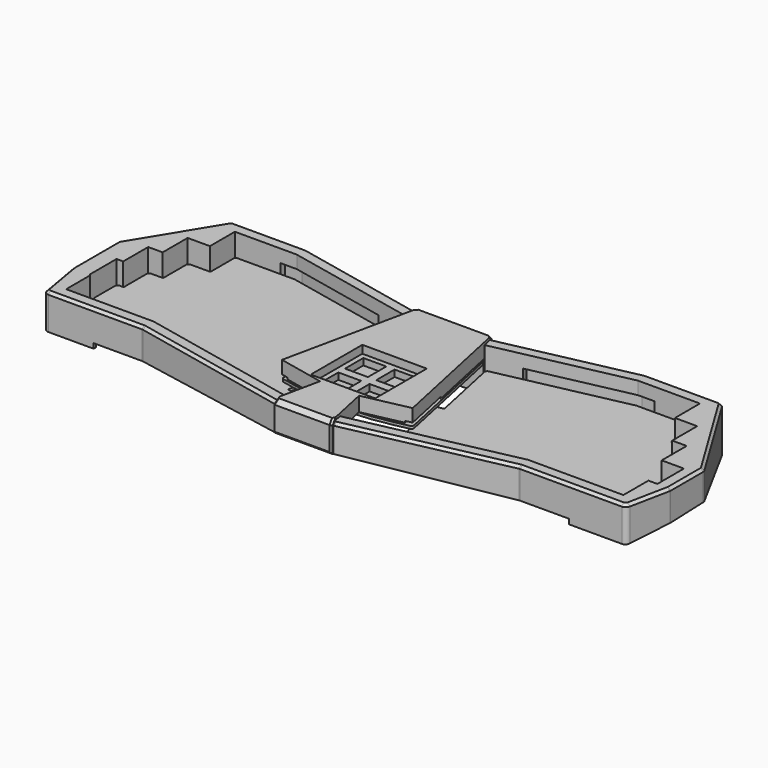
from build123d import *

# Parameters (mm, degrees)
PAD_DEPTH       = 1.6
FILLET_R        = 1.5
FILLET001_R     = 0.8
PAD001_DEPTH    = 40
POCKET_DEPTH    = 400
POCKET001_DEPTH = 50
POCKET001_TAPER = 70
POCKET002_DEPTH = 50
POCKET002_TAPER = 70
POCKET003_DEPTH = 3
POCKET005_DEPTH = 16.8
POCKET007_DEPTH = 22
POCKET012_DEPTH = 59
PAD006_DEPTH    = 3.5
PAD007_DEPTH    = 3.5
SKETCH026_W     = 15
SKETCH026_H     = 4
PAD008_DEPTH    = 3.5
SKETCH027_W     = 15
SKETCH027_H     = 4
PAD009_DEPTH    = 3.5
FILLET003_R     = 8
FILLET004_R     = 3
CHAMFER_SIZE    = 1.6
POCKET019_DEPTH = 200
SKETCH038_R     = 2
POCKET025_DEPTH = 6.7
PAD015_DEPTH    = 3.5
PAD016_DEPTH    = 3.5
POCKET035_DEPTH = 115
PAD010_DEPTH    = 1.6
FILLET002_R     = 1.5
PAD011_DEPTH    = 28.4
POCKET017_DEPTH = 50
POCKET018_DEPTH = 19.6
POCKET020_DEPTH = 26
POCKET021_DEPTH = 16
POCKET022_DEPTH = 19
POCKET023_DEPTH = 25
POCKET024_DEPTH = 1
CHAMFER001_SIZE = 2.6
CHAMFER002_SIZE = 1.2
SKETCH045_R     = 4.5
SKETCH045_R_2   = 2
PAD013_DEPTH    = 5.6
SKETCH046_R     = 2
POCKET030_DEPTH = 6.7
SKETCH047_R     = 2
POCKET031_DEPTH = 5.7
POCKET032_DEPTH = 13
CHAMFER003_SIZE = 1
SKETCH054_R     = 3.6
SKETCH054_R_2   = 2
PAD014_DEPTH    = 1
SKETCH055_W     = 19
SKETCH055_H     = 36
POCKET033_DEPTH = 1
PAD017_DEPTH    = 8
PAD018_DEPTH    = 8
FILLET005_R     = 1
SKETCH049_W     = 39.3
SKETCH049_H     = 39.3
POCKET036_DEPTH = 50
SKETCH063_W     = 14
SKETCH063_H     = 14
SKETCH063_H_2   = 14.0000000001
POCKET037_DEPTH = 500


with BuildPart() as pcb:
    # Sketch001 → Pad (new body)
    with BuildSketch(Plane.XY):
        with BuildLine():
            Line((-25.6569009013, 76.7143133761), (-104.1862885277, 93.40625))
            Line((-104.1862885277, 93.40625), (-140.3865264554, 93.40625))
            Line((-140.3865264554, 93.40625), (-140.3865264554, 74.35625))
            Line((-140.3865264554, 74.35625), (-153.9607289552, 74.35625))
            Line((-153.9607289552, 74.35625), (-153.9607289552, 55.30625))
            Line((-153.9607289552, 55.30625), (-162.772431455, 55.30625))
            Line((-162.772431455, 55.30625), (-162.772431455, 36.25625))
            Line((-162.772431455, 36.25625), (-166.8216339549, 36.25625))
            Line((-166.8216339549, 36.25625), (-166.8216339549, 18.7896622428))
            Line((-166.8216339549, 18.7896622428), (-166.1083364547, 18.0000001221))
            Line((-166.1083364547, 18.0000001221), (-166.1083364547, -0.25625))
            Line((-166.1083364547, -0.25625), (-114.0306139632, -0.25625))
            Line((-114.0306139632, -0.25625), (-33.0319665059, -17.4730440034))
            ThreePointArc((-33.0319665059, -17.4730440034), (0, -21.0075427473), (33.0319665059, -17.4730440034))
            Line((114.0306139632, -0.25625), (33.0319665059, -17.4730440034))
            Line((114.0306139632, -0.25625), (170.8708364547, -0.25625))
            Line((170.8708364547, -0.25625), (170.8708364547, 18.79375))
            Line((170.8708364547, 18.79375), (176.3466339549, 18.79375))
            Line((176.3466339549, 18.79375), (176.3466339549, 36.25625))
            Line((176.3466339549, 36.25625), (162.772431455, 36.25625))
            Line((162.772431455, 36.25625), (162.772431455, 55.30625))
            Line((162.772431455, 55.30625), (153.9607289552, 55.30625))
            Line((153.9607289552, 55.30625), (153.9607289552, 74.35625))
            Line((153.9607289552, 74.35625), (140.3865264554, 74.35625))
            Line((140.3865264554, 74.35625), (140.3865264554, 93.40625))
            Line((140.3865264554, 93.40625), (104.1862885277, 93.40625))
            Line((104.1862885277, 93.40625), (25.6569009013, 76.7143133761))
            Line((34.7896818101, 33.7479573294), (25.6569009013, 76.7143133761))
            Line((29.5137981886, 32.626533647), (34.7896818101, 33.7479573294))
            Line((35.8509465247, 2.8125947766), (29.5137981886, 32.626533647))
            ThreePointArc((-35.8509465247, 2.8125947766), (0, -2.07), (35.8509465247, 2.8125947766))
            Line((-35.8509465247, 2.8125947766), (-29.5137981886, 32.626533647))
            Line((-29.5137981886, 32.626533647), (-34.7896818101, 33.7479573294))
            Line((-34.7896818101, 33.7479573294), (-25.6569009013, 76.7143133761))
        make_face()
    extrude(amount=PAD_DEPTH)

    # Fillet
    fillet_edges = [pcb.edges().sort_by_distance(p)[0] for p in [
        (-166.108336, -0.25625, 0.8),
        (-166.821634, 36.25625, 0.8),
        (-162.772431, 55.30625, 0.8),
        (-153.960729, 74.35625, 0.8),
        (-140.386526, 93.40625, 0.8),
        (-25.656901, 76.714313, 0.8),
        (25.656901, 76.714313, 0.8),
        (140.386526, 93.40625, 0.8),
        (153.960729, 74.35625, 0.8),
        (162.772431, 55.30625, 0.8),
        (176.346634, 36.25625, 0.8),
        (176.346634, 18.79375, 0.8),
        (170.870836, -0.25625, 0.8),
        (-114.030614, -0.25625, 0.8),
        (114.030614, -0.25625, 0.8),
        (-104.186289, 93.40625, 0.8),
        (104.186289, 93.40625, 0.8),
    ]]
    fillet(fillet_edges, radius=FILLET_R)

    # Fillet001
    fillet001_edges = [pcb.edges().sort_by_distance(p)[0] for p in [
        (-34.789682, 33.747957, 0.8),
        (-29.513798, 32.626534, 0.8),
        (-35.850947, 2.812595, 0.8),
        (-140.386526, 74.35625, 0.8),
        (-153.960729, 55.30625, 0.8),
        (-162.772431, 36.25625, 0.8),
        (-166.108336, 18, 0.8),
        (-166.821634, 18.789662, 0.8),
        (35.850947, 2.812595, 0.8),
        (29.513798, 32.626534, 0.8),
        (34.789682, 33.747957, 0.8),
        (140.386526, 74.35625, 0.8),
        (153.960729, 55.30625, 0.8),
        (162.772431, 36.25625, 0.8),
        (170.870836, 18.79375, 0.8),
    ]]
    fillet(fillet001_edges, radius=FILLET001_R)


with BuildPart() as pcb_1:
    # Body001 placement: moved
    add(pcb.part.moved(Location((0, 0, 5.4))))


with BuildPart() as body002:
    # Sketch002 → Pad001 (new body)
    with BuildSketch(Plane.XY.offset(-20.2)):
        Polygon((-149.4960240693, 102.2), (-179.6153839549, 52.8352871714), (-179.6153839549, 18), (-174.9020864547, -9.05), (-114.9548743321, -9.05), (-18.2317807246, -29.6091282113), (18.2317807246, -29.6091282113), (114.9548743321, -9.05), (179.6645864547, -9.05), (185.1403839549, 18), (185.1403839549, 43.7799805707), (149.4960240693, 102.2), (103.2620281588, 102.2), (23.0521728121, 85.1508689355), (-23.0521728121, 85.1508689355), (-103.2620281588, 102.2), align=None)
    extrude(amount=PAD001_DEPTH)

    # Sketch004 → Pocket (cut)
    with BuildSketch(Plane.YZ.offset(200)):
        Polygon((-29.6091282113, 0), (427.5929638991, -40), (-34.6091282113, -40), (-34.6091282113, 0), align=None)
    extrude(amount=-POCKET_DEPTH, mode=Mode.SUBTRACT)

    # Sketch005 (on Face2 of Pocket) → Pocket001 (cut)
    with BuildSketch(Plane(origin=(0, -0.2249145944, -2.5707855781), x_dir=(1, 0, 0), z_dir=(0, -0.0871557427, -0.9961946981))):
        Polygon((179.664586, 8.858796), (139.4960240693, -102.8161611286), (-829.867004, -717.988555), (0, -4000), (8000, 0), (0, 4000), (-701.29071, 993.332806), align=None)
    extrude(amount=-POCKET001_DEPTH, taper=POCKET001_TAPER, mode=Mode.SUBTRACT)

    # Sketch006 (on Face2 of Pocket001) → Pocket002 (cut)
    with BuildSketch(Plane(origin=(0, -0.2249145944, -2.5707855781), x_dir=(1, 0, 0), z_dir=(0, -0.0871557427, -0.9961946981))):
        Polygon((-174.9020864547, 8.8587957981), (-139.4960240693, -102.8161611286), (0, -4000), (-8000, 0), (0, 4000), align=None)
    extrude(amount=-POCKET002_DEPTH, taper=POCKET002_TAPER, mode=Mode.SUBTRACT)

    # Sketch007 (on Face19 of Pocket002) → Pocket003 (cut)
    with BuildSketch(Plane(origin=(0, -0.2249145944, -2.5707855781), x_dir=(1, 0, 0), z_dir=(0, -0.0871557427, -0.9961946981))):
        Polygon((-172.1698836043, 6.8587957981), (-144.9548743321, 6.8587957981), (-144.9548743321, 8.8587957981), (-144.9548743321, 29.4964565392), (-88.6830095072, 29.4964565392), (0, 55.200555), (88.6830096055, 29.496457), (144.9548743321, 29.496457), (144.9548743321, 8.8587957981), (144.9548743321, 6.8587957981), (176.8197582998, 6.8587957981), (138.0899634837, -100.8161611286), (103.4730219471, -100.8161611286), (72.3688065106, -94.1795015486), (71.9514637892, -96.1354731877), (70.5260154697, -102.8161611286), (-70.5260154697, -102.8161611286), (-71.9514637892, -96.1354731877), (-72.3688065106, -94.1795015486), (-103.4730219471, -100.8161611286), (-138.0320039292, -100.8161611286), align=None)
    extrude(amount=-POCKET003_DEPTH, mode=Mode.SUBTRACT)

    # Sketch003 → Pocket005 (cut)
    with BuildSketch(Plane.XY.offset(19.8)):
        Polygon((-141.7802764554, 94.8), (-141.7802764554, 75.75), (-155.3544789552, 75.75), (-155.3544789552, 56.7), (-164.166181455, 56.7), (-164.166181455, 37.65), (-168.2153839549, 37.65), (-168.2153839549, 17.4), (-167.5020864547, 16.6867024998), (-167.5020864547, -1.65), (-152.5020864547, -1.65), (-126.7802764554, 94.8), align=None)
        Polygon((157.2645864547, -1.65), (172.2645864547, -1.65), (172.2645864547, 17.4), (177.7403839549, 17.4), (177.7403839549, 37.65), (164.166181455, 37.65), (164.166181455, 56.7), (155.3544789552, 56.7), (155.3544789552, 75.75), (141.7802764554, 75.75), (141.7802764554, 94.8), (126.7802764554, 94.8), align=None)
    extrude(amount=-POCKET005_DEPTH, mode=Mode.SUBTRACT)

    # Sketch012 → Pocket007 (cut)
    with BuildSketch(Plane.XY.offset(-10)):
        Polygon((-44.2784183533, 81.4839219459), (-43.4259804209, 85.4943271089), (-103.6719346763, 98.3), (-114.0802764554, 98.3), (-114.0802764554, 94.2), (-149.2770864547, -1.05), (-149.2770864547, -5.15), (-114.5449678146, -5.15), (-42.8527627495, -20.3886486072), (-42.0003248171, -16.3782434442), (-111.178681455, 37.05), align=None)
        Polygon((44.2784183533, 81.4839219459), (43.4259804209, 85.4943271089), (103.6719346763, 98.3), (114.0802764554, 98.3), (114.0802764554, 94.2), (149.2770864547, -1.05), (149.2770864547, -5.15), (114.5449678146, -5.15), (42.8527627495, -20.3886486072), (42.0003248171, -16.3782434442), (111.178681455, 37.05), align=None)
    extrude(amount=POCKET007_DEPTH, mode=Mode.SUBTRACT)

    # Sketch017 → Pocket012 (cut)
    with BuildSketch(Plane.XY.offset(40)):
        Polygon((-164.7812608877, -1.65), (-114.1771029911, -1.65), (-16.6932414892, -22.3708344192), (16.6932414892, -22.3708344192), (114.1771029911, -1.65), (169.1251097712, -1.65), (134.3003201796, 94.8), (104.0397994998, 94.8), (24.5907120235, 77.9125751382), (-24.5907120235, 77.9125751382), (-104.0397994998, 94.8), (-134.0853982624, 94.8), align=None)
    extrude(amount=-POCKET012_DEPTH, mode=Mode.SUBTRACT)

    # Sketch024 (on Face92 of Pocket012) → Pad006 (join)
    with BuildSketch(Plane(origin=(-5.9988132418, -28.2221973985, 0), x_dir=(-0.9781476007, 0.2079116908, 0), z_dir=(0.2079116908, 0.9781476007, 0))):
        Polygon((47.675634708, 2.0229030007), (47.675634708, 6.0229030006), (62.6731537758, 5.7500993892), (62.6731537758, 1.7500993892), align=None)
    extrude(amount=PAD006_DEPTH)

    # Sketch025 (on Face94 of Pad006) → Pad007 (join)
    with BuildSketch(Plane(origin=(5.9988132418, -28.2221973985, 0), x_dir=(-0.9781476007, -0.2079116908, 0), z_dir=(-0.2079116908, 0.9781476007, 0))):
        Polygon((-47.675634708, 2.0229030007), (-47.675634708, 6.0229030007), (-62.6731537758, 5.7500993892), (-62.6731537758, 1.7500993892), align=None)
    extrude(amount=PAD007_DEPTH)

    # Sketch026 (on Face91 of Pad007) → Pad008 (join)
    with BuildSketch(Plane(origin=(0, -5.15, 0), x_dir=(-1, 0, 0), z_dir=(0, 1, 0))):
        with Locations((131.7770864547, 2.8715630744)):
            Rectangle(SKETCH026_W, SKETCH026_H)
    extrude(amount=PAD008_DEPTH)

    # Sketch027 (on Face97 of Pad008) → Pad009 (join)
    with BuildSketch(Plane(origin=(0, -5.15, 0), x_dir=(-1, 0, 0), z_dir=(0, 1, 0))):
        with Locations((-131.7770864547, 2.8715630744)):
            Rectangle(SKETCH027_W, SKETCH027_H)
    extrude(amount=PAD009_DEPTH)

    # Fillet003
    fillet003_edges = [body002.edges().sort_by_distance(p)[0] for p in [
        (134.30032, 94.8, -2.436464),
        (138.089963, 100.338344, -9.863201),
        (-134.085398, 94.8, -2.436464),
        (-138.032004, 100.338344, -9.863201),
        (169.12511, -1.65, 1.782676),
        (176.819758, -6.926877, -0.47871),
        (-164.781261, -1.65, 1.782676),
        (-172.169884, -6.926877, -0.47871),
    ]]
    fillet(fillet003_edges, radius=FILLET003_R)

    # Fillet004
    fillet004_edges = [body002.edges().sort_by_distance(p)[0] for p in [
        (-174.902086, -9.05, 9.000655),
        (-179.615384, 18, 10.115146),
        (-179.615384, 52.835287, 10.503488),
        (-149.496024, 102.2, 5.858877),
        (-114.954874, -9.05, 10.506384),
        (-18.231781, -29.609128, 11.40573),
        (18.231781, -29.609128, 11.40573),
        (114.954874, -9.05, 10.506384),
        (179.664586, -9.05, 9.000655),
        (185.140384, 18, 10.409616),
        (185.140384, 43.779981, 10.864903),
        (149.496024, 102.2, 5.834753),
        (103.262028, 102.2, 4.134098),
        (23.052173, 85.150869, 6.38563),
        (-23.052173, 85.150869, 6.38563),
        (-103.262028, 102.2, 4.134098),
    ]]
    fillet(fillet004_edges, radius=FILLET004_R)

    # Chamfer
    chamfer_edges = [body002.edges().sort_by_distance(p)[0] for p in [
        (-177.452971, 5.589733, 19.8),
    ]]
    chamfer(chamfer_edges, length=CHAMFER_SIZE)

    # Sketch032 → Pocket019 (cut)
    with BuildSketch(Plane.XY):
        Polygon((-10, -38.338413), (10, -38.338413), (10, -15.045521), (10, 62.395123), (10, 94.439026), (-10, 94.439026), (-10, 62.395123), (-10, -15.045521), align=None)
    extrude(amount=POCKET019_DEPTH, mode=Mode.SUBTRACT)

    # Sketch038 (on Face53 of Pocket019) → Pocket025 (cut)
    with BuildSketch(Plane(origin=(0, 0.0365526338, 0.4177985162), x_dir=(1, 0, 0), z_dir=(0, -0.0871557427, -0.9961946981))):
        with Locations((-152.8770864547, 4.7929949909)):
            Circle(SKETCH038_R)
        with Locations((-117.6802764554, -98.7254283402)):
            Circle(SKETCH038_R)
        with Locations((117.6802764554, -98.7254283402)):
            Circle(SKETCH038_R)
        with Locations((152.8770864547, 4.7929949909)):
            Circle(SKETCH038_R)
        with Locations((31.1362598613, 23.092329532)):
            Circle(SKETCH038_R)
        with Locations((-31.1362598613, 23.092329532)):
            Circle(SKETCH038_R)
        with Locations((-31.6633816813, -83.3636160948)):
            Circle(SKETCH038_R)
        with Locations((31.6633816813, -83.3636160948)):
            Circle(SKETCH038_R)
    extrude(amount=-POCKET025_DEPTH, mode=Mode.SUBTRACT)

    # Sketch057 (on Face148 of Pocket025) → Pad015 (join)
    with BuildSketch(Plane(origin=(15.5096511733, 72.9671718974, 0), x_dir=(0.9781476007, -0.2079116908, 0), z_dir=(-0.2079116908, -0.9781476007, 0))):
        Polygon((-85.2481537758, -7.1133944772), (-70.250634708, -6.8405908657), (-70.250634708, -2.8405908657), (-85.2481537758, -3.1133944772), align=None)
    extrude(amount=PAD015_DEPTH)

    # Sketch058 (on Face151 of Pad015) → Pad016 (join)
    with BuildSketch(Plane(origin=(-15.5096511733, 72.9671718974, 0), x_dir=(0.9781476007, 0.2079116908, 0), z_dir=(0.2079116908, -0.9781476007, 0))):
        Polygon((70.250634708, -6.8406570349), (85.2481537758, -7.1134606463), (85.2481537758, -3.1134606463), (70.250634708, -2.8406570349), align=None)
    extrude(amount=PAD016_DEPTH)

    # Sketch061 (on Face13 of Pad016) → Pocket035 (cut, symmetric)
    with BuildSketch(Plane.XZ.offset(-77.9125751382)):
        Polygon((-10, 14.8), (-15, 9.8), (-10, 4.8), align=None)
        Polygon((10, 14.8), (15, 9.8), (10, 4.8), align=None)
    extrude(amount=POCKET035_DEPTH, both=True, mode=Mode.SUBTRACT)


with BuildPart() as pcb_core:
    # Sketch028 → Pad010 (new body)
    with BuildSketch(Plane.XY):
        with BuildLine():
            Line((-24.2903297212, 76.8006881296), (24.2903297212, 76.8006881296))
            Line((24.2903297212, 76.8006881296), (39.9356560509, 3.1952148064))
            Line((39.9356560509, 3.1952148064), (29.998245005, 1.0829528826))
            ThreePointArc((-29.998245005, 1.0829528826), (0, -2.07), (29.998245005, 1.0829528826))
            Line((-39.9356560509, 3.1952148064), (-29.998245005, 1.0829528826))
            Line((-39.9356560509, 3.1952148064), (-24.2903297212, 76.8006881296))
        make_face()
    extrude(amount=PAD010_DEPTH)

    # Fillet002
    fillet002_edges = [pcb_core.edges().sort_by_distance(p)[0] for p in [
        (-39.935656, 3.195215, 0.8),
        (-24.29033, 76.800688, 0.8),
        (24.29033, 76.800688, 0.8),
        (39.935656, 3.195215, 0.8),
    ]]
    fillet(fillet002_edges, radius=FILLET002_R)


with BuildPart() as pcb_core_1:
    # Body007 placement: moved
    add(pcb_core.part.moved(Location((0, 0, 10))))


with BuildPart() as case_core:
    # Sketch029 → Pad011 (new body)
    with BuildSketch(Plane.XY):
        Polygon((-17.9584668663, -31.2091282113), (-11.8943740038, -2.6798143436), (-39.844852054, 3.2612431678), (-22.0854419765, 86.7508689355), (22.0986779565, 86.7508689355), (39.846701604, 3.2529824996), (11.896133913, -2.6880940655), (17.9584668663, -31.2091282113), align=None)
    extrude(amount=PAD011_DEPTH)

    # Sketch030 → Pocket017 (cut, symmetric)
    with BuildSketch(Plane.YZ):
        Polygon((-31.2091282114, 0), (-31.2091282114, 10.1399818616), (84.6913948162, 0), align=None)
    extrude(amount=POCKET017_DEPTH, both=True, mode=Mode.SUBTRACT)

    # Sketch031 → Pocket018 (cut)
    with BuildSketch(Plane.XY):
        with BuildLine():
            Line((171.6645864547, -20.7708337586), (171.6645864547, 76.7508689355))
            Line((171.6645864547, 76.7508689355), (-166.9020864547, 76.7508689355))
            Line((-166.9020864547, 76.7508689355), (-166.9020864547, -20.7708337586))
            Line((-166.9020864547, -20.7708337586), (-14.6128973912, -20.7708337586))
            ThreePointArc((-14.6128973912, -20.7708337586), (0, -21.3708337586), (14.6128973912, -20.7708337586))
            Line((171.6645864547, -20.7708337586), (14.6128973912, -20.7708337586))
        make_face()
    extrude(amount=POCKET018_DEPTH, mode=Mode.SUBTRACT)

    # Sketch033 → Pocket020 (cut)
    with BuildSketch(Plane.YZ.offset(-9.6)):
        Polygon((-29.6091282114, -7.025155), (-29.6091282114, 25.2), (-28.0091282114, 26.8), (-22.3708337586, 26.8), (-22.3708337586, -7.025155), align=None)
    extrude(amount=-POCKET020_DEPTH, mode=Mode.SUBTRACT)

    # Sketch034 → Pocket021 (cut)
    with BuildSketch(Plane.YZ.offset(-9.6)):
        Polygon((85.1508689355, -10.772844), (85.1508689355, 25.2), (83.5508689355, 26.8), (77.9108689355, 26.8), (77.9108689355, -10.772844), align=None)
    extrude(amount=-POCKET021_DEPTH, mode=Mode.SUBTRACT)

    # Sketch035 → Pocket022 (cut)
    with BuildSketch(Plane.YZ.offset(9.6)):
        Polygon((-29.6091282114, -7.025155), (-29.6091282114, 25.2), (-28.0091282114, 26.8), (-22.3708337586, 26.8), (-22.3708337586, -7.025155), align=None)
    extrude(amount=POCKET022_DEPTH, mode=Mode.SUBTRACT)

    # Sketch036 → Pocket023 (cut)
    with BuildSketch(Plane.YZ.offset(9.6)):
        Polygon((85.1508689355, -10.772844), (85.1508689355, 25.2), (83.5508689355, 26.8), (77.9108689355, 26.8), (77.9108689355, -10.772844), align=None)
    extrude(amount=POCKET023_DEPTH, mode=Mode.SUBTRACT)

    # Sketch037 (on Face2 of Pocket023) → Pocket024 (cut)
    with BuildSketch(Plane(origin=(0, 0, 19.6), x_dir=(1, 0, 0), z_dir=(0, 0, -1))):
        Polygon((-39.844852054, -3.2612431678), (-35.9322616511, -2.4295964045), (-29.6904916408, -31.7730847305), (-33.6030820438, -32.6047314938), align=None)
        Polygon((35.934111201, -2.4213357363), (29.6967604765, -31.7657637584), (33.6093508794, -32.5974105216), (39.846701604, -3.2529824996), align=None)
    extrude(amount=-POCKET024_DEPTH, mode=Mode.SUBTRACT)

    # Chamfer001
    chamfer001_edges = [case_core.edges().sort_by_distance(p)[0] for p in [
        (0, -31.209128, 28.4),
        (0.006618, 86.750869, 28.4),
    ]]
    chamfer(chamfer001_edges, length=CHAMFER001_SIZE)

    # Chamfer002
    chamfer002_edges = [case_core.edges().sort_by_distance(p)[0] for p in [
        (0, -31.209128, 10.139982),
        (0.006618, 86.750869, 0),
        (17.958467, -31.209128, 17.969991),
        (-17.958467, -31.209128, 17.969991),
        (-17.682143, -29.909128, 27.1),
        (17.682143, -29.909128, 27.1),
        (22.098678, 86.750869, 12.9),
        (22.375001, 85.450869, 27.1),
        (-22.36197, 85.450869, 27.1),
        (-22.085442, 86.750869, 12.9),
    ]]
    chamfer(chamfer002_edges, length=CHAMFER002_SIZE)

    # Sketch045 → Pad013 (join)
    with BuildSketch(Plane.XY.offset(19.6)):
        with Locations((0, -10.4867326534)):
            Circle(SKETCH045_R)
        with Locations((0, -10.4867326534)):
            Circle(SKETCH045_R_2, mode=Mode.SUBTRACT)
    extrude(amount=-PAD013_DEPTH)

    # Sketch046 (on Face55 of Pad013) → Pocket030 (cut)
    with BuildSketch(Plane(origin=(0, 0, 14), x_dir=(1, 0, 0), z_dir=(0, 0, -1))):
        with Locations((0, 10.4867326534)):
            Circle(SKETCH046_R)
    extrude(amount=-POCKET030_DEPTH, mode=Mode.SUBTRACT)

    # Sketch047 → Pocket031 (cut)
    with BuildSketch(Plane.XY.offset(18.6)):
        with Locations((-20.778249147, 72.3256881296)):
            Circle(SKETCH047_R)
        with Locations((20.778249147, 72.3256881296)):
            Circle(SKETCH047_R)
    extrude(amount=POCKET031_DEPTH, mode=Mode.SUBTRACT)

    # Sketch048 (on Face30 of Pocket031) → Pocket032 (cut)
    with BuildSketch(Plane.XZ.offset(-76.7508689355)):
        with BuildLine():
            ThreePointArc((-4, 13.5), (-7.5, 10), (-4, 6.5))
            Line((-4, 6.5), (4, 6.5))
            ThreePointArc((4, 6.5), (7.5, 10), (4, 13.5))
            Line((4, 13.5), (-4, 13.5))
        make_face()
    extrude(amount=-POCKET032_DEPTH, mode=Mode.SUBTRACT)

    # Chamfer003
    chamfer003_edges = [case_core.edges().sort_by_distance(p)[0] for p in [
        (0, 86.750869, 13.5),
        (0, 86.750869, 6.5),
        (-7.5, 86.750869, 10),
        (7.5, 86.750869, 10),
        (-7.5, 76.750869, 10),
        (0, 76.750869, 13.5),
        (7.5, 76.750869, 10),
        (0, 76.750869, 6.5),
    ]]
    chamfer(chamfer003_edges, length=CHAMFER003_SIZE)

    # Sketch054 → Pad014 (join)
    with BuildSketch(Plane.XY.offset(19.6)):
        with Locations((-20.778249147, 72.3256881296)):
            Circle(SKETCH054_R)
        with Locations((-20.778249147, 72.3256881296)):
            Circle(SKETCH054_R_2, mode=Mode.SUBTRACT)
        with Locations((20.778249147, 72.3256881296)):
            Circle(SKETCH054_R)
        with Locations((20.778249147, 72.3256881296)):
            Circle(SKETCH054_R_2, mode=Mode.SUBTRACT)
    extrude(amount=-PAD014_DEPTH)

    # Sketch055 (on Face7 of Pad014) → Pocket033 (cut)
    with BuildSketch(Plane(origin=(0, 0, 19.6), x_dir=(1, 0, 0), z_dir=(0, 0, -1))):
        with Locations((0, -58.7508689355)):
            Rectangle(SKETCH055_W, SKETCH055_H)
    extrude(amount=-POCKET033_DEPTH, mode=Mode.SUBTRACT)

    # Sketch060 (on Face23 of Pocket033) → Pad017 (join)
    with BuildSketch(Plane.XZ.offset(-85.1508689355)):
        Polygon((9.6, 11.8), (14.6, 16.8), (9.6, 21.8), align=None)
        Polygon((-9.6, 21.8), (-14.6, 16.8), (-9.6, 11.8), align=None)
    extrude(amount=PAD017_DEPTH)

    # Sketch062 (on Face68 of Pad017) → Pad018 (join)
    with BuildSketch(Plane.XZ.offset(22.3708337586)):
        Polygon((9.6, 11.8), (14.6, 16.8), (9.6, 21.8), align=None)
        Polygon((-9.6, 21.8), (-14.6, 16.8), (-9.6, 11.8), align=None)
    extrude(amount=PAD018_DEPTH)

    # Fillet005
    fillet005_edges = [case_core.edges().sort_by_distance(p)[0] for p in [
        (-14.6, -25.989981, 16.8),
        (14.6, -25.989981, 16.8),
        (14.6, 81.530869, 16.8),
        (-14.6, 81.530869, 16.8),
    ]]
    fillet(fillet005_edges, radius=FILLET005_R)

    # Sketch049 → Pocket036 (cut)
    with BuildSketch(Plane.XY.offset(23.6)):
        with Locations((0, 19.6047330851)):
            Rectangle(SKETCH049_W, SKETCH049_H)
    extrude(amount=POCKET036_DEPTH, mode=Mode.SUBTRACT)

    # Sketch063 → Pocket037 (cut)
    with BuildSketch(Plane.XY.offset(23.6)):
        with Locations((-9.525, 29.1297330852)):
            Rectangle(SKETCH063_W, SKETCH063_H)
        with Locations((9.525, 29.1297330852)):
            Rectangle(SKETCH063_W, SKETCH063_H)
        with Locations((-9.525, 10.0797330852)):
            Rectangle(SKETCH063_W, SKETCH063_H_2)
        with Locations((9.525, 10.0797330852)):
            Rectangle(SKETCH063_W, SKETCH063_H_2)
    extrude(amount=-POCKET037_DEPTH, mode=Mode.SUBTRACT)


with BuildPart() as case_core_1:
    # Body008 placement: moved
    add(case_core.part.moved(Location((0, 0, -7))))


solid = Compound([pcb_1.part, body002.part, pcb_core_1.part, case_core_1.part])
